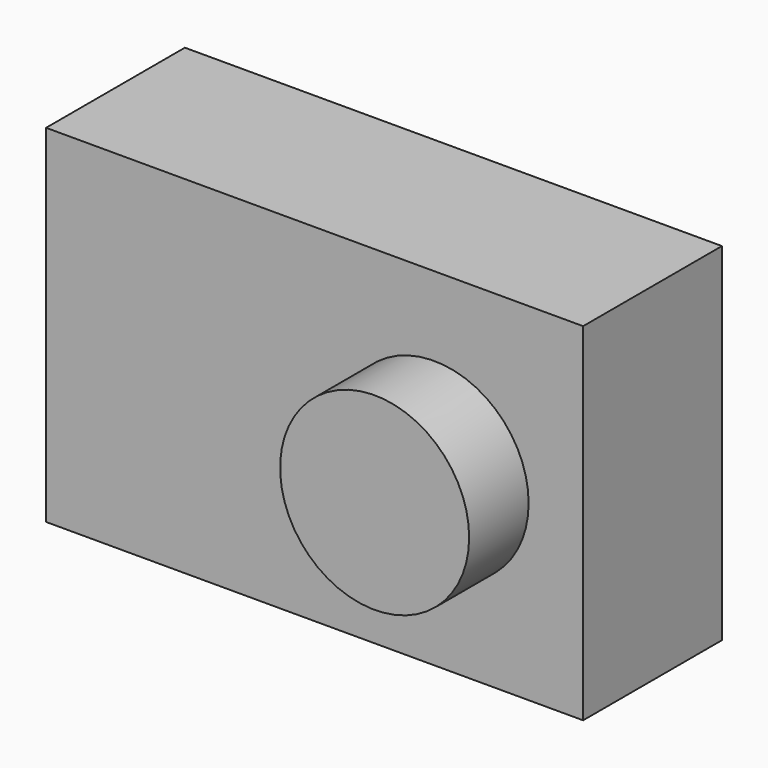
from build123d import *

# Parameters (mm, degrees)
F0_W     = 65
F0_H     = 21
F1_DEPTH = 42
F2_R     = 11.4388
F3_DEPTH = 9


with BuildPart() as f1:
    # F0 (on Top) → F1 (new body)
    with BuildSketch(Plane.XY):
        Rectangle(F0_W, F0_H)
    extrude(amount=F1_DEPTH)

    # F2 (on face) → F3 (join)
    with BuildSketch(Plane.XZ.offset(10.5)):
        with Locations((14.466948, 21)):
            Circle(F2_R)
    extrude(amount=F3_DEPTH)


solid = f1.part
